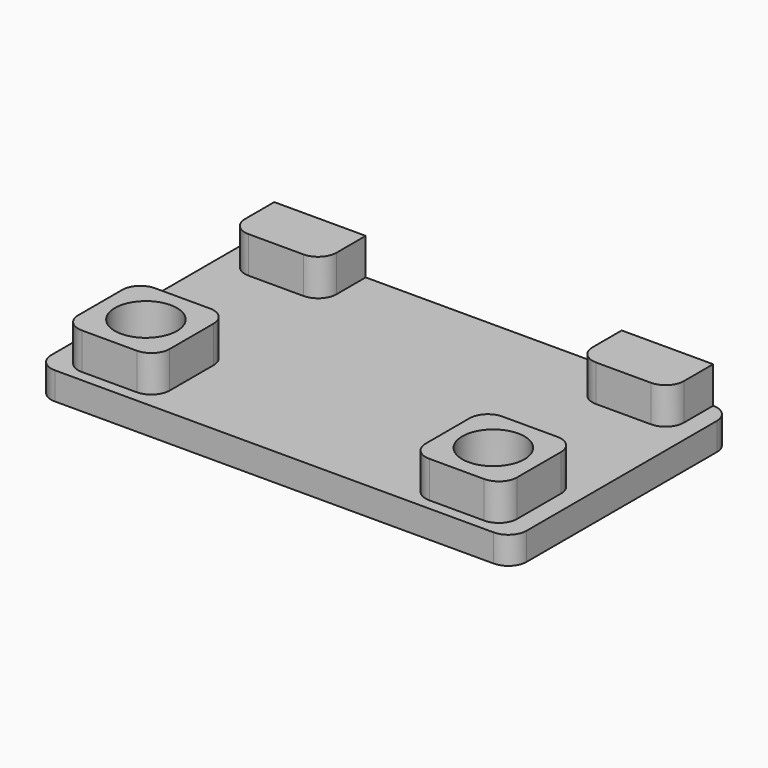
from build123d import *

# Parameters (mm, degrees)
F0_W     = 26
F0_H     = 15
F0_R     = 1.7
F1_DEPTH = 1.5
F2_W     = 5
F2_H     = 5
F2_R     = 1.7
F2_H_2   = 3
F3_DEPTH = 2
F4_R     = 1


with BuildPart() as f1:
    # F0 (on Top) → F1 (new body)
    with BuildSketch(Plane.XY):
        with Locations((-13, -7.5)):
            Rectangle(F0_W, F0_H)
        with Locations((-22.5, -11.9)):
            Circle(F0_R, mode=Mode.SUBTRACT)
        with Locations((-3.5, -11.9)):
            Circle(F0_R, mode=Mode.SUBTRACT)
    extrude(amount=F1_DEPTH)

    # F2 (on face) → F3 (join)
    with BuildSketch(Plane.XY.offset(1.5)):
        with Locations((-22.5, -11.9)):
            Rectangle(F2_W, F2_H)
        with Locations((-22.5, -11.9)):
            Circle(F2_R, mode=Mode.SUBTRACT)
        with Locations((-3.5, -11.9)):
            Rectangle(F2_W, F2_H)
        with Locations((-3.5, -11.9)):
            Circle(F2_R, mode=Mode.SUBTRACT)
        with Locations((-22.5, -1.5)):
            Rectangle(F2_W, F2_H_2)
        with Locations((-3.5, -1.5)):
            Rectangle(F2_W, F2_H_2)
    extrude(amount=F3_DEPTH)

    # F4
    f4_edges = [f1.edges().sort_by_distance(p)[0] for p in [
        (-26, 0, 0.75),
        (-26, -15, 0.75),
        (0, -15, 0.75),
        (0, 0, 0.75),
        (-1, -3, 2.5),
        (-6, -3, 2.5),
        (-20, -3, 2.5),
        (-25, -3, 2.5),
        (-25, -14.4, 2.5),
        (-25, -9.4, 2.5),
        (-20, -9.4, 2.5),
        (-20, -14.4, 2.5),
        (-6, -14.4, 2.5),
        (-1, -14.4, 2.5),
        (-1, -9.4, 2.5),
        (-6, -9.4, 2.5),
    ]]
    fillet(f4_edges, radius=F4_R)


solid = f1.part
